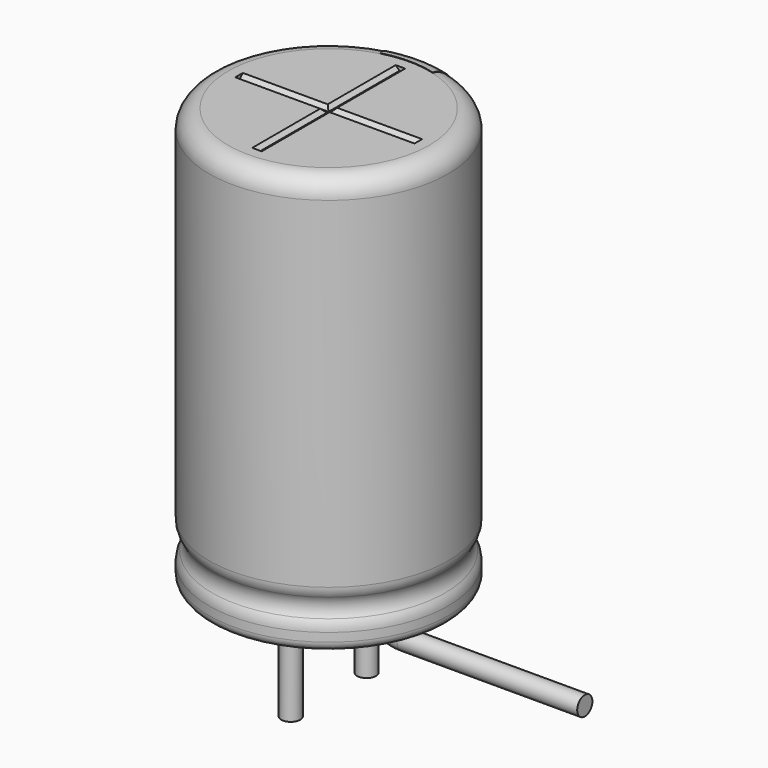
from build123d import *

# Parameters (mm, degrees)
SKETCH003_R         = 0.25
REVOLUTION001_ANGLE = -30
SKETCH015_W         = 0.5
SKETCH015_H         = 1
POCKET002_DEPTH     = 3.161
LINEARPATTERN_COUNT = 3
LINEARPATTERN_PITCH = 4
SKETCH010_R         = 0.25
PAD002_DEPTH        = 2.6
SKETCH013_R         = 2.65
PAD_DEPTH           = 0.5
POCKET001_DEPTH     = 2.3625
POLARPATTERN_COUNT  = 3
POLARPATTERN_ANGLE  = 180
SKETCH012_R         = 2.65
POCKET_DEPTH        = 0.5


with BuildPart() as obj1:
    # AdditivePipe: sweep along a path in Sketch004
    with BuildLine(Plane.XZ) as additivepipe_path:
        Line((0, 0), (0, -0.5))
        ThreePointArc((0, -0.5), (0.292893, -1.207107), (1, -1.5))
        Line((1, -1.5), (5.75, -1.5))
    # Sketch003 (on ShapeBinder) → AdditivePipe (sweep)
    with BuildSketch(Plane(origin=(0, 0, 0), x_dir=(1, 0, 0), z_dir=(0, 0, -1))):
        with Locations((0, 1.25)):
            Circle(SKETCH003_R)
    sweep(path=additivepipe_path.line)


with BuildPart() as obj1_1:
    # Body003 placement: moved
    add(obj1.part.moved(Location((0, 2.5, 0))))


with BuildPart() as polaritymarking:
    # Sketch005 → Revolution001 (revolve)
    with BuildSketch(Plane(origin=(0, 0, 0), x_dir=(-0.258819, 0.965926, 0), z_dir=(0.965926, 0.258819, 0))):
        with BuildLine():
            Line((2.66, 0.25), (2.66, 11.01))
            ThreePointArc((2.66, 11.01), (3.013553, 10.863553), (3.16, 10.51))
            Line((3.16, 10.51), (3.16, 1.523941))
            ThreePointArc((3.16, 1.523941), (3.139134, 1.381006), (3.078278, 1.25))
            ThreePointArc((3.078278, 1.25), (3.003698, 1), (3.078278, 0.75))
            ThreePointArc((3.078278, 0.75), (3.139134, 0.618994), (3.16, 0.476059))
            Line((3.16, 0.476059), (3.16, 0.25))
            ThreePointArc((3.16, 0.25), (2.91, 0), (2.66, 0.25))
        make_face()
    revolve(axis=Axis((0, 0, 0), (0, 0, 1)), revolution_arc=REVOLUTION001_ANGLE)

    # Sketch015 → Pocket002 (cut, through all)
    with BuildSketch(Plane.XZ):
        with Locations((0, 2)):
            Rectangle(SKETCH015_W, SKETCH015_H)
    pocket002 = extrude(amount=-POCKET002_DEPTH, mode=Mode.SUBTRACT)

    # LinearPattern: Pocket002 ×3
    with Locations(*[(0, 0, i * LINEARPATTERN_PITCH) for i in range(1, LINEARPATTERN_COUNT)]):
        add(pocket002, mode=Mode.SUBTRACT)


with BuildPart() as obj2:
    # Sketch010 → Pad002 (new body)
    with BuildSketch(Plane(origin=(0, 1.25, 0), x_dir=(1, 0, 0), z_dir=(0, 0, 1))):
        Circle(SKETCH010_R)
    extrude(amount=-PAD002_DEPTH)


with BuildPart() as obj3:
    # Body007 base: copy of obj2
    add(obj2.part)


with BuildPart() as obj3_1:
    # Body007 placement: moved
    add(obj3.part.moved(Location((0, -2.5, 0))))


with BuildPart() as housingtop:
    # Sketch013 (on ShapeBinder) → Pad (new body)
    with BuildSketch(Plane.XY.offset(10.5)):
        Circle(SKETCH013_R)
    extrude(amount=PAD_DEPTH)

    # Sketch014 → Pocket001 (cut, symmetric)
    with BuildSketch(Plane.XZ):
        Polygon((-0.125, 11), (0.125, 11), (0.025, 10.9), (-0.025, 10.9), align=None)
    pocket001 = extrude(amount=POCKET001_DEPTH, both=True, mode=Mode.SUBTRACT)

    # PolarPattern: Pocket001 ×3 about axis
    polarpattern_axis = Axis((0, 0, 0), (0, 0, 1))
    for i in range(1, POLARPATTERN_COUNT):
        add(pocket001.rotate(polarpattern_axis, i * POLARPATTERN_ANGLE / (POLARPATTERN_COUNT - 1)), mode=Mode.SUBTRACT)


with BuildPart() as fusion:
    # Sketch → Revolution (revolve)
    with BuildSketch(Plane.XZ):
        with BuildLine():
            Line((0, 11), (2.65, 11))
            ThreePointArc((3.15, 10.5), (3.003553, 10.853553), (2.65, 11))
            Line((3.15, 10.5), (3.15, 1.523941))
            ThreePointArc((3.068278, 1.25), (3.129134, 1.381006), (3.15, 1.523941))
            ThreePointArc((3.068278, 1.25), (2.993698, 1), (3.068278, 0.75))
            ThreePointArc((3.15, 0.476059), (3.129134, 0.618994), (3.068278, 0.75))
            Line((3.15, 0.476059), (3.15, 0.25))
            ThreePointArc((2.9, 0), (3.076777, 0.073223), (3.15, 0.25))
            Line((0, 0), (2.9, 0))
            Line((0, 11), (0, 0))
        make_face()
    revolve(axis=Axis((0, 0, 0), (0, 0, 1)))

    # Sketch012 → Pocket (cut)
    with BuildSketch(Plane.XY.offset(11)):
        Circle(SKETCH012_R)
    extrude(amount=-POCKET_DEPTH, mode=Mode.SUBTRACT)

    # Fusion: union PolarityMarking, obj2, obj3, HousingTop
    add(polaritymarking.part)
    add(obj2.part)
    add(obj3_1.part)
    add(housingtop.part)


solid = Compound([obj1_1.part, fusion.part])
